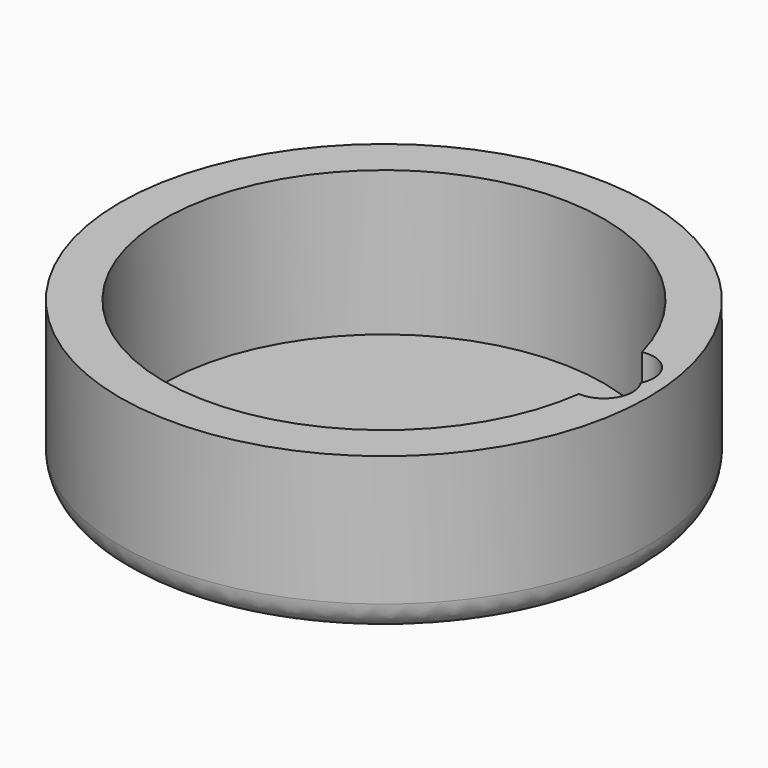
from build123d import *

# Parameters (mm, degrees)
F0_R     = 18.25
F1_DEPTH = 1
F2_DEPTH = 10
F3_R     = 2


with BuildPart() as f1:
    # F0 (on Top) → F1 (new body)
    with BuildSketch(Plane.XY):
        Circle(F0_R)
        with BuildLine():
            ThreePointArc((15.0684210526, -1.9956670515), (-15.1670695917, -1), (14.6759622394, 3.9567830807))
            ThreePointArc((14.6759622394, 3.9567830807), (16.6541844606, 3.2144182213), (16.8625088904, 1.1117842368))
            ThreePointArc((16.8625088904, 1.1117842368), (16.9320508076, -1), (15.0684210526, -1.9956670515))
        make_face(mode=Mode.SUBTRACT)
        Circle(F0_R)
        with BuildLine():
            ThreePointArc((15.0684210526, -1.9956670515), (-15.1670695917, -1), (14.6759622394, 3.9567830807))
            ThreePointArc((14.6759622394, 3.9567830807), (16.6541844606, 3.2144182213), (16.8625088904, 1.1117842368))
            ThreePointArc((16.8625088904, 1.1117842368), (16.9320508076, -1), (15.0684210526, -1.9956670515))
        make_face(mode=Mode.SUBTRACT)
        with BuildLine():
            ThreePointArc((16.8625088904, 1.1117842368), (16.6541844606, 3.2144182213), (14.6759622394, 3.9567830807))
            ThreePointArc((14.6759622394, 3.9567830807), (-15.1670695917, -1), (15.0684210526, -1.9956670515))
            ThreePointArc((15.0684210526, -1.9956670515), (16.9320508076, -1), (16.8625088904, 1.1117842368))
        make_face()
        with BuildLine():
            ThreePointArc((16.8625088904, 1.1117842368), (16.6541844606, 3.2144182213), (14.6759622394, 3.9567830807))
            ThreePointArc((14.6759622394, 3.9567830807), (-15.1670695917, -1), (15.0684210526, -1.9956670515))
            ThreePointArc((15.0684210526, -1.9956670515), (16.9320508076, -1), (16.8625088904, 1.1117842368))
        make_face()
    extrude(amount=-F1_DEPTH)

    # F0 (on Top) → F2 (join)
    with BuildSketch(Plane.XY):
        Circle(F0_R)
        with BuildLine():
            ThreePointArc((15.0684210526, -1.9956670515), (-15.1670695917, -1), (14.6759622394, 3.9567830807))
            ThreePointArc((14.6759622394, 3.9567830807), (16.6541844606, 3.2144182213), (16.8625088904, 1.1117842368))
            ThreePointArc((16.8625088904, 1.1117842368), (16.9320508076, -1), (15.0684210526, -1.9956670515))
        make_face(mode=Mode.SUBTRACT)
    extrude(amount=F2_DEPTH)

    # F3
    f3_edges = [f1.edges().sort_by_distance(p)[0] for p in [
        (-18.25, 0, -1),
    ]]
    fillet(f3_edges, radius=F3_R)


solid = f1.part
